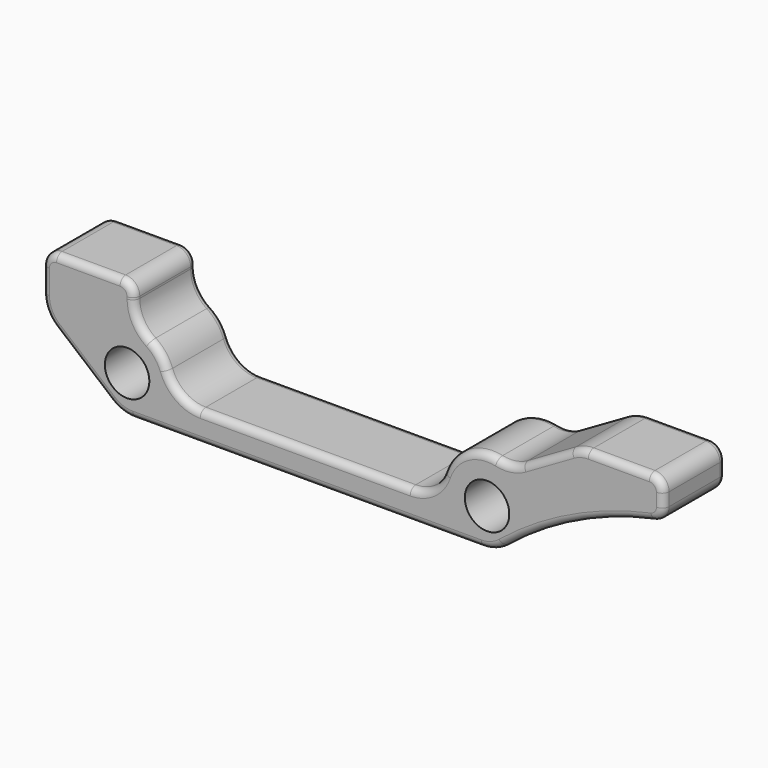
from build123d import *

# Parameters (mm, degrees)
F1_DEPTH = 11
F2_D     = 6.3
F3_R     = 5
F4_R     = 2
F5_R     = 1


with BuildPart() as f1:
    # F0 (on Front) → F1 (new body)
    with BuildSketch(Plane.XZ):
        with BuildLine():
            Line((19.1313266688, -1.3), (-19.6425261418, -1.3))
            ThreePointArc((-19.6425261418, -1.3), (-20.5226323435, 3.3504941743), (-24.5, 5.9160797831))
            Line((-24.5, 5.9160797831), (-24.5, 11.5))
            Line((-24.5, 11.5), (-37.5, 11.5))
            Line((-37.5, 11.5), (-37.5, 3.730095943))
            Line((-37.5, 3.730095943), (-26.5, -5.5))
            Line((-26.5, -5.5), (26.5, -5.5))
            ThreePointArc((26.5, -5.5), (37.7208276523, 1.8760988126), (50.5, 6))
            Line((50.5, 6), (50.5, 11.5))
            Line((50.5, 11.5), (38.5, 11.5))
            Line((38.5, 11.5), (28.5361144551, 5.7473479985))
            ThreePointArc((28.5361144551, 5.7473479985), (21.6022101623, 5.2016568881), (19.1313266688, -1.3))
        make_face()
    extrude(amount=-F1_DEPTH)

    # F2 (through all)
    with Locations(Plane.XZ):
        with Locations((25.5, 0), (-25.5, 0)):
            Hole(F2_D / 2)

    # F3
    f3_edges = [f1.edges().sort_by_distance(p)[0] for p in [
        (-24.5, 5.5, 5.91608),
        (-19.642526, 5.5, -1.3),
        (19.131327, 5.5, -1.3),
        (28.536114, 5.5, 5.747348),
        (-37.5, 5.5, 3.730096),
        (-26.5, 5.5, -5.5),
        (26.5, 5.5, -5.5),
        (38.5, 5.5, 11.5),
    ]]
    fillet(f3_edges, radius=F3_R)

    # F4
    f4_edges = [f1.edges().sort_by_distance(p)[0] for p in [
        (-24.5, 5.5, 11.5),
        (-37.5, 5.5, 11.5),
        (50.5, 5.5, 11.5),
        (50.5, 5.5, 6),
    ]]
    fillet(f4_edges, radius=F4_R)

    # F5
    f5_edges = [f1.edges().sort_by_distance(p)[0] for p in [
        (28.771496, 11, 6.278411),
        (-0.264736, 0, -1.3),
    ]]
    fillet(f5_edges, radius=F5_R)


solid = f1.part
